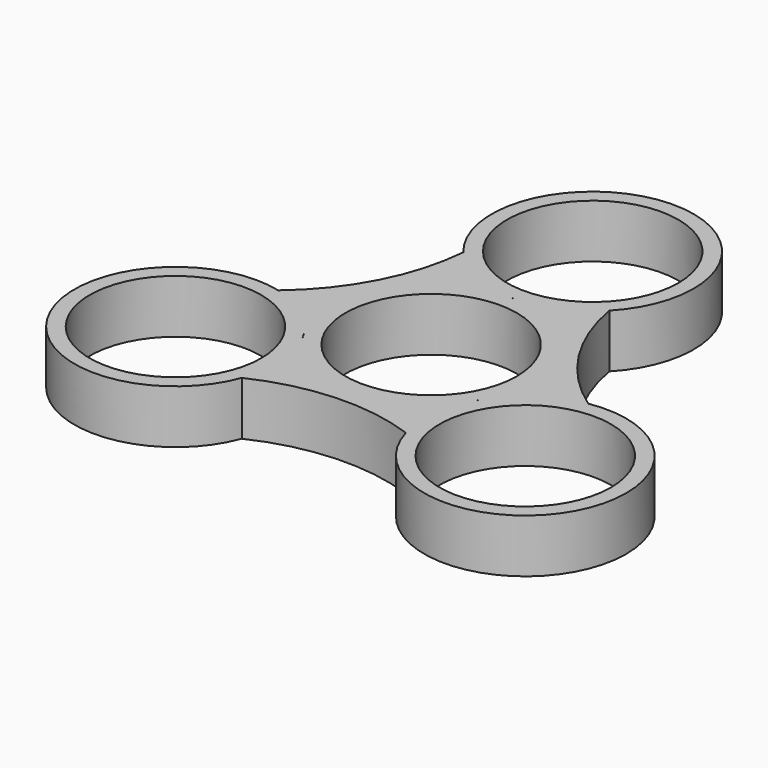
from build123d import *

# Parameters (mm, degrees)
F0_R     = 11.2
F2_DEPTH = 7


with BuildPart() as f2:
    # F0 (on Top) → F2 (new body)
    with BuildSketch(Plane.XY):
        with BuildLine():
            ThreePointArc((20.668161, -0.17612), (13.344029, 7.406925), (9.500217, 17.223778))
            ThreePointArc((9.500217, 17.223778), (0.511629, 39.57824), (-10.181556, 17.987212))
            ThreePointArc((-10.181556, 17.987212), (-13.0866, 7.852805), (-19.666337, -0.38446))
            ThreePointArc((-19.666337, -0.38446), (-34.531576, -19.346037), (-10.486604, -17.811092))
            ThreePointArc((-10.486604, -17.811092), (-0.257429, -15.25973), (10.166121, -16.839318))
            ThreePointArc((10.166121, -16.839318), (34.019947, -20.232203), (20.668161, -0.17612))
        make_face()
        with Locations((-22.852816, -13.19408)):
            Circle(F0_R, mode=Mode.SUBTRACT)
        with BuildLine():
            ThreePointArc((-11.228756, -6.939384), (-11.431535, -6.6), (-11.62406, -6.254696))
            ThreePointArc((-11.62406, -6.254696), (-11.421281, -6.59408), (-11.228756, -6.939384))
        make_face(mode=Mode.SUBTRACT)
        with Locations((22.852816, -13.19408)):
            Circle(F0_R, mode=Mode.SUBTRACT)
        with BuildLine():
            ThreePointArc((11.228756, -6.939384), (11.421281, -6.59408), (11.62406, -6.254696))
            ThreePointArc((11.62406, -6.254696), (11.431535, -6.6), (11.228756, -6.939384))
        make_face(mode=Mode.SUBTRACT)
        Circle(F0_R, mode=Mode.SUBTRACT)
        with BuildLine():
            ThreePointArc((-0.395305, 13.19408), (0, 13.2), (0.395305, 13.19408))
            ThreePointArc((0.395305, 13.19408), (0, 13.188159), (-0.395305, 13.19408))
        make_face(mode=Mode.SUBTRACT)
        with Locations((0, 26.388159)):
            Circle(F0_R, mode=Mode.SUBTRACT)
    extrude(amount=F2_DEPTH)


solid = f2.part
